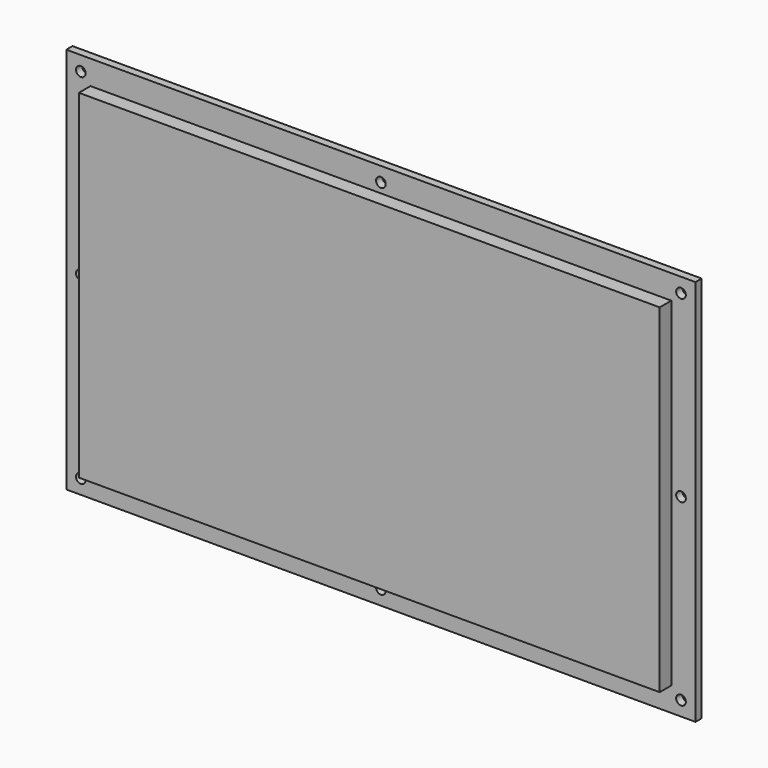
from build123d import *

# Parameters (mm, degrees)
F0_W     = 120
F0_H     = 70
F2_DEPTH = 3
F1_W     = 130
F1_H     = 80
F3_DEPTH = 1.6
F4_D     = 2


with BuildPart() as f2:
    # F0 (on Front) → F2 (new body)
    with BuildSketch(Plane.XZ):
        Rectangle(F0_W, F0_H)
    extrude(amount=F2_DEPTH)

    # F1 (on Front) → F3 (join)
    with BuildSketch(Plane.XZ):
        Rectangle(F1_W, F1_H)
    extrude(amount=-F3_DEPTH)

    # F4 (through all)
    with Locations(Plane.XZ):
        with Locations((62, 37), (62, 0), (62, -37), (0, -37), (0, 37), (-62, 37), (-62, 0), (-62, -37)):
            Hole(F4_D / 2)


solid = f2.part
